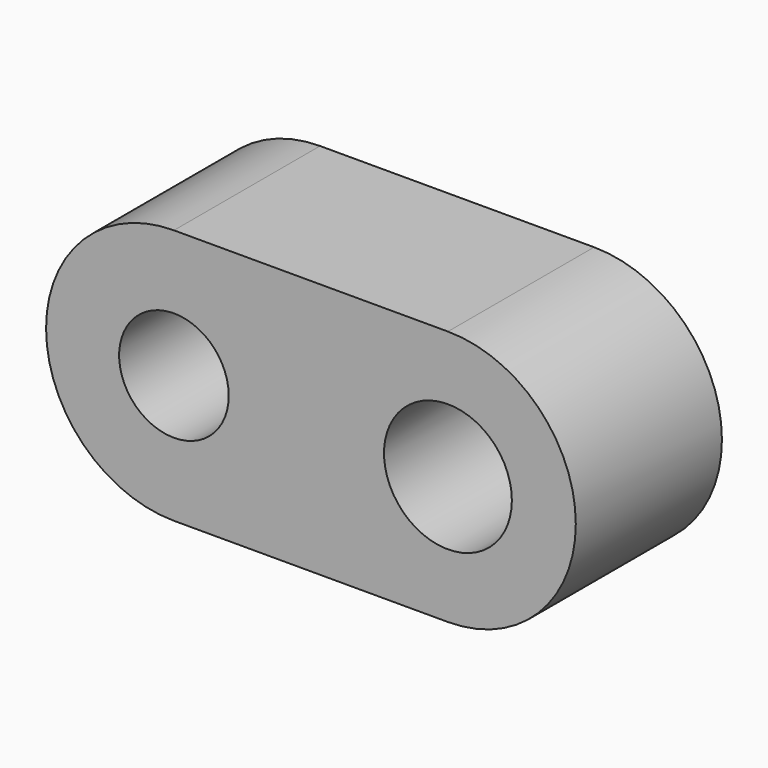
from build123d import *

# Parameters (mm, degrees)
F0_R     = 1.5
F0_R_2   = 1.75
F1_DEPTH = 2.5


with BuildPart() as f1:
    # F0 (on Front) → F1 (new body, symmetric)
    with BuildSketch(Plane.XZ):
        with BuildLine():
            Line((3.75, 3.5), (-3.75, 3.5))
            ThreePointArc((-3.75, 3.5), (-7.25, 0), (-3.75, -3.5))
            Line((-3.75, -3.5), (3.75, -3.5))
            ThreePointArc((3.75, -3.5), (7.25, 0), (3.75, 3.5))
        make_face()
        with Locations((-3.75, 0)):
            Circle(F0_R, mode=Mode.SUBTRACT)
        with Locations((3.75, 0)):
            Circle(F0_R_2, mode=Mode.SUBTRACT)
    extrude(amount=F1_DEPTH, both=True)


solid = f1.part
